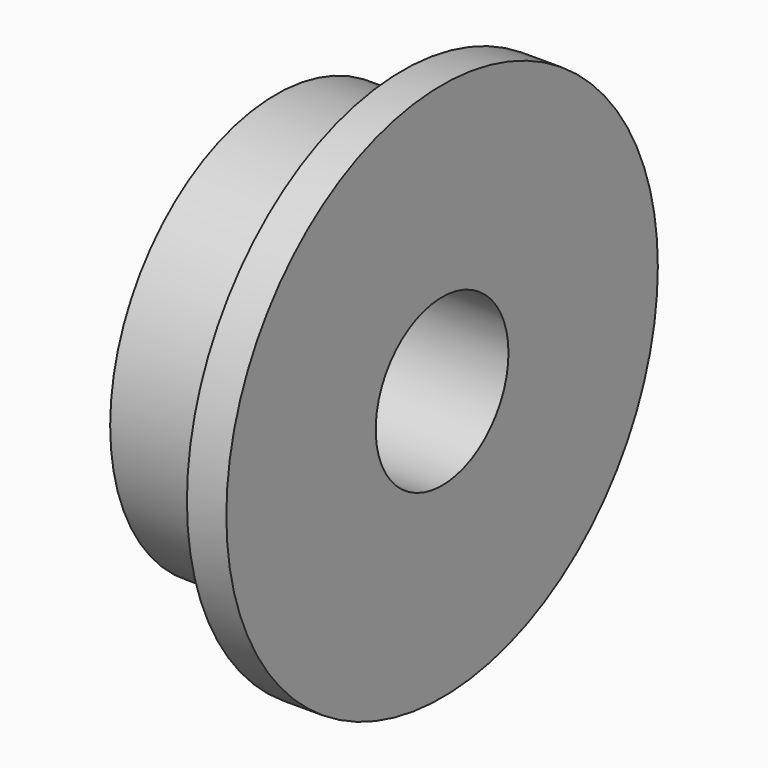
from build123d import *

# Parameters (mm, degrees)
F0_R     = 32.5
F0_R_2   = 10
F1_DEPTH = 20
F2_R     = 43.119325
F2_R_2   = 25
F3_DEPTH = 15.25


with BuildPart() as f1:
    # F0 (on Right) → F1 (new body)
    with BuildSketch(Plane.YZ):
        Circle(F0_R)
        Circle(F0_R_2, mode=Mode.SUBTRACT)
    extrude(amount=F1_DEPTH)

    # F2 (on face) → F3 (cut)
    with BuildSketch(Plane(origin=(0, 0, 0), x_dir=(0, -1, 0), z_dir=(-1, 0, 0))):
        Circle(F2_R)
        Circle(F2_R_2, mode=Mode.SUBTRACT)
    extrude(amount=-F3_DEPTH, mode=Mode.SUBTRACT)


solid = f1.part
